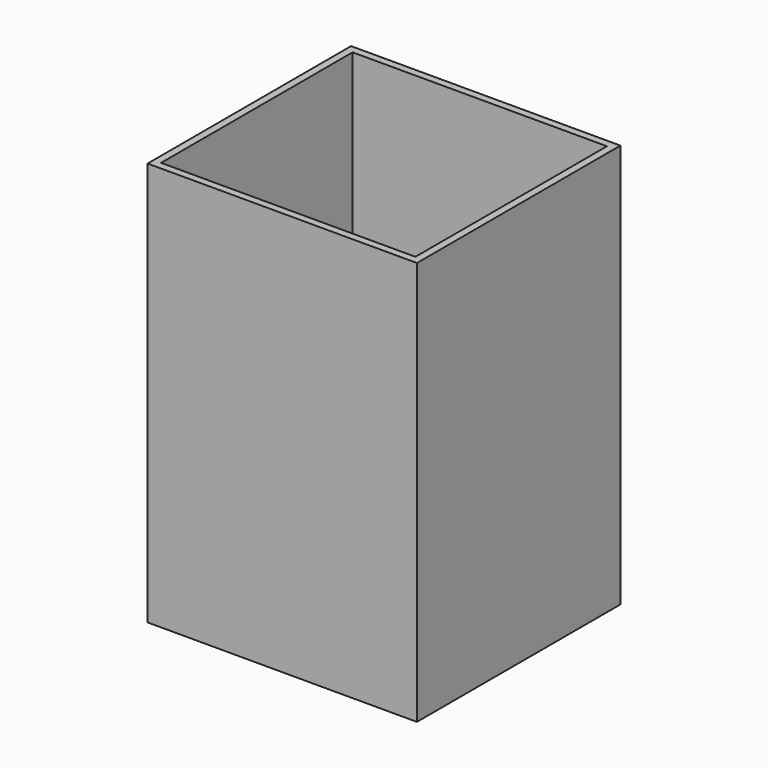
from build123d import *

# Parameters (mm, degrees)
BOX002_W     = 170
BOX002_H     = 160
BOX002_DEPTH = 290
BOX006_W     = 180
BOX006_H     = 170
BOX006_DEPTH = 270


with BuildPart() as obj1:
    # Box002 → Box002 (new body)
    with BuildSketch(Plane(origin=(20, 50, 20), x_dir=(1, 0, 0), z_dir=(0, 0, 1))):
        with Locations((85, 80)):
            Rectangle(BOX002_W, BOX002_H)
    extrude(amount=BOX002_DEPTH)


with BuildPart() as obj2:
    # Box006 → Box006 (new body)
    with BuildSketch(Plane(origin=(15, 45, 10), x_dir=(1, 0, 0), z_dir=(0, 0, 1))):
        with Locations((90, 85)):
            Rectangle(BOX006_W, BOX006_H)
    extrude(amount=BOX006_DEPTH)

    # Cut003: cut obj1
    add(obj1.part, mode=Mode.SUBTRACT)


solid = obj2.part
